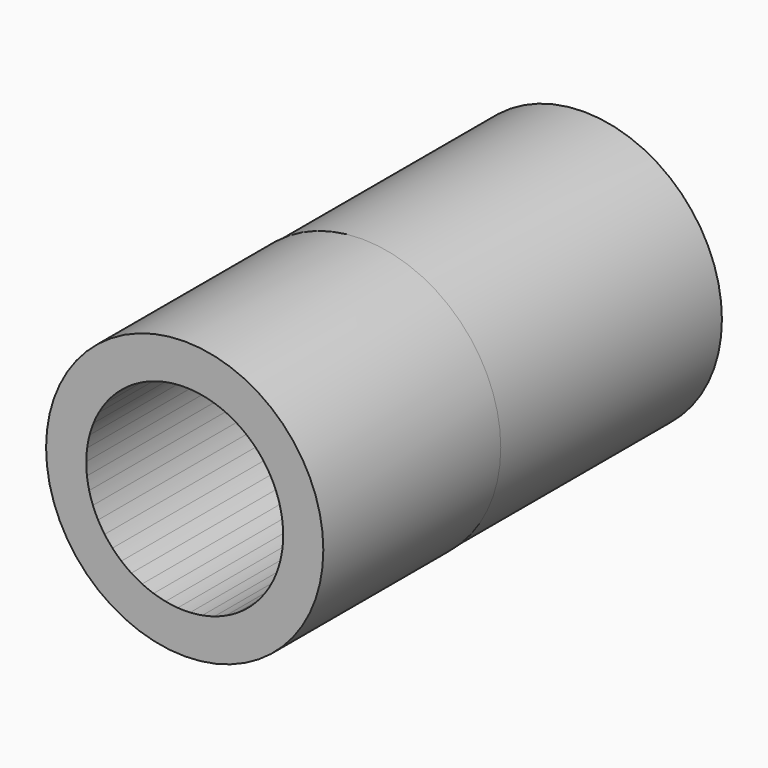
from build123d import *

# Parameters (mm, degrees)
F0_R     = 6.35
F1_DEPTH = 10.16
F2_R     = 6.3201010277
F3_DEPTH = 12.7
F5_DEPTH = 10.16
F6_R     = 6.3201010277
F6_R_2   = 3.556
F7_DEPTH = 12.7


with BuildPart() as f1:
    # F0 (on Front) → F1 (new body)
    with BuildSketch(Plane.XZ):
        Circle(F0_R)
        with BuildLine():
            ThreePointArc((4.4769727705, 0.5322471811), (4.500611291, 0.2665900542), (4.5085, 0))
            ThreePointArc((4.5085, 0), (4.5084696907, -0.0165317216), (4.5083787633, -0.0330632208))
            ThreePointArc((4.5083787633, -0.0330632208), (4.4974064508, -0.3160814229), (4.4686849298, -0.597852196))
            ThreePointArc((4.4686849298, -0.597852196), (4.4223275509, -0.8772635196), (4.3585172655, -1.1532126849))
            ThreePointArc((4.3585172655, -1.1532126849), (4.2775059036, -1.4246106466), (4.1796131802, -1.6903863208))
            ThreePointArc((4.1796131802, -1.6903863208), (4.0652254331, -1.9494908126), (3.9347940983, -2.2009015547))
            ThreePointArc((3.9347940983, -2.2009015547), (3.788833929, -2.4436263439), (3.627920963, -2.6767072564))
            ThreePointArc((3.627920963, -2.6767072564), (3.4526902504, -2.8992244281), (3.2638333469, -3.1102996856))
            ThreePointArc((3.2638333469, -3.1102996856), (3.0620955841, -3.3091000111), (2.8482731291, -3.4948408307))
            ThreePointArc((2.8482731291, -3.4948408307), (2.6232098413, -3.6667891102), (2.3877939426, -3.8242662482))
            ThreePointArc((2.3877939426, -3.8242662482), (2.1429545122, -3.9666507546), (1.8896578193, -4.0933807025))
            ThreePointArc((1.8896578193, -4.0933807025), (1.6289035103, -4.203955947), (1.3617206633, -4.2979400979))
            ThreePointArc((1.3617206633, -4.2979400979), (1.089163727, -4.3749622428), (0.812308359, -4.4347184104))
            ThreePointArc((0.812308359, -4.4347184104), (0.5322471811, -4.4769727705), (0.2500854667, -4.5015585645))
            ThreePointArc((0.2500854667, -4.5015585645), (-0.0330632208, -4.5083787633), (-0.3160814229, -4.4974064508))
            ThreePointArc((-0.3160814229, -4.4974064508), (-0.597852196, -4.4686849298), (-0.8772635196, -4.4223275509))
            ThreePointArc((-0.8772635196, -4.4223275509), (-1.1532126849, -4.3585172655), (-1.4246106466, -4.2775059036))
            ThreePointArc((-1.4246106466, -4.2775059036), (-1.6903863208, -4.1796131802), (-1.9494908126, -4.0652254331))
            ThreePointArc((-1.9494908126, -4.0652254331), (-2.2009015547, -3.9347940983), (-2.4436263439, -3.788833929))
            ThreePointArc((-2.4436263439, -3.788833929), (-2.6767072564, -3.627920963), (-2.8992244281, -3.4526902504))
            ThreePointArc((-2.8992244281, -3.4526902504), (-3.1102996856, -3.2638333469), (-3.3091000111, -3.0620955841))
            ThreePointArc((-3.3091000111, -3.0620955841), (-3.4948408307, -2.8482731291), (-3.6667891102, -2.6232098413))
            ThreePointArc((-3.6667891102, -2.6232098413), (-3.8242662482, -2.3877939426), (-3.9666507546, -2.1429545122))
            ThreePointArc((-3.9666507546, -2.1429545122), (-4.0933807025, -1.8896578193), (-4.203955947, -1.6289035103))
            ThreePointArc((-4.203955947, -1.6289035103), (-4.2979400979, -1.3617206633), (-4.3749622428, -1.089163727))
            ThreePointArc((-4.3749622428, -1.089163727), (-4.4347184104, -0.812308359), (-4.4769727705, -0.5322471811))
            ThreePointArc((-4.4769727705, -0.5322471811), (-4.5015585645, -0.2500854667), (-4.5083787633, 0.0330632208))
            ThreePointArc((-4.5083787633, 0.0330632208), (-4.4974064508, 0.3160814229), (-4.4686849298, 0.597852196))
            ThreePointArc((-4.4686849298, 0.597852196), (-4.4223275509, 0.8772635196), (-4.3585172655, 1.1532126849))
            ThreePointArc((-4.3585172655, 1.1532126849), (-4.2775059036, 1.4246106466), (-4.1796131802, 1.6903863208))
            ThreePointArc((-4.1796131802, 1.6903863208), (-4.0652254331, 1.9494908126), (-3.9347940983, 2.2009015547))
            ThreePointArc((-3.9347940983, 2.2009015547), (-3.788833929, 2.4436263439), (-3.627920963, 2.6767072564))
            ThreePointArc((-3.627920963, 2.6767072564), (-3.4526902504, 2.8992244281), (-3.2638333469, 3.1102996856))
            ThreePointArc((-3.2638333469, 3.1102996856), (-3.0620955841, 3.3091000111), (-2.8482731291, 3.4948408307))
            ThreePointArc((-2.8482731291, 3.4948408307), (-2.6232098413, 3.6667891102), (-2.3877939426, 3.8242662482))
            ThreePointArc((-2.3877939426, 3.8242662482), (-2.1429545122, 3.9666507546), (-1.8896578193, 4.0933807025))
            ThreePointArc((-1.8896578193, 4.0933807025), (-1.6289035103, 4.203955947), (-1.3617206633, 4.2979400979))
            ThreePointArc((-1.3617206633, 4.2979400979), (-1.089163727, 4.3749622428), (-0.812308359, 4.4347184104))
            ThreePointArc((-0.812308359, 4.4347184104), (-0.5322471811, 4.4769727705), (-0.2500854667, 4.5015585645))
            ThreePointArc((-0.2500854667, 4.5015585645), (0.0330632208, 4.5083787633), (0.3160814229, 4.4974064508))
            ThreePointArc((0.3160814229, 4.4974064508), (0.597852196, 4.4686849298), (0.8772635196, 4.4223275509))
            ThreePointArc((0.8772635196, 4.4223275509), (1.1532126849, 4.3585172655), (1.4246106466, 4.2775059036))
            ThreePointArc((1.4246106466, 4.2775059036), (1.6903863208, 4.1796131802), (1.9494908126, 4.0652254331))
            ThreePointArc((1.9494908126, 4.0652254331), (2.2009015547, 3.9347940983), (2.4436263439, 3.788833929))
            ThreePointArc((2.4436263439, 3.788833929), (2.6767072564, 3.627920963), (2.8992244281, 3.4526902504))
            ThreePointArc((2.8992244281, 3.4526902504), (3.1102996856, 3.2638333469), (3.3091000111, 3.0620955841))
            ThreePointArc((3.3091000111, 3.0620955841), (3.4948408307, 2.8482731291), (3.6667891102, 2.6232098413))
            ThreePointArc((3.6667891102, 2.6232098413), (3.8242662482, 2.3877939426), (3.9666507546, 2.1429545122))
            ThreePointArc((3.9666507546, 2.1429545122), (4.0933807025, 1.8896578193), (4.203955947, 1.6289035103))
            ThreePointArc((4.203955947, 1.6289035103), (4.2979400979, 1.3617206633), (4.3749622428, 1.089163727))
            ThreePointArc((4.3749622428, 1.089163727), (4.4347184104, 0.812308359), (4.4769727705, 0.5322471811))
        make_face(mode=Mode.SUBTRACT)
    extrude(amount=F1_DEPTH)

    # F2 (on Front) → F3 (join)
    with BuildSketch(Plane.XZ):
        Circle(F2_R)
    extrude(amount=-F3_DEPTH)

    # F4 (on face) → F5 (cut)
    with BuildSketch(Plane(origin=(0, 12.7, 0), x_dir=(-1, 0, 0), z_dir=(0, 1, 0))):
        with BuildLine():
            ThreePointArc((-2.6027254946, 2.032), (-1.0744776445, -3.1222911125), (3.302, 0))
            ThreePointArc((3.302, 0), (3.1222911125, 1.0744776445), (2.6027254946, 2.032))
            Line((2.6027254946, 2.032), (-2.6027254946, 2.032))
        make_face()
    extrude(amount=-F5_DEPTH, mode=Mode.SUBTRACT)

    # F6 (on face) → F7 (join)
    with BuildSketch(Plane(origin=(0, 12.7, 0), x_dir=(-1, 0, 0), z_dir=(0, 1, 0))):
        Circle(F6_R)
        Circle(F6_R_2, mode=Mode.SUBTRACT)
        with BuildLine():
            Line((-2.6027254946, 2.032), (2.6027254946, 2.032))
            ThreePointArc((2.6027254946, 2.032), (0, 3.302), (-2.6027254946, 2.032))
        make_face()
    extrude(amount=-F7_DEPTH)


solid = f1.part
